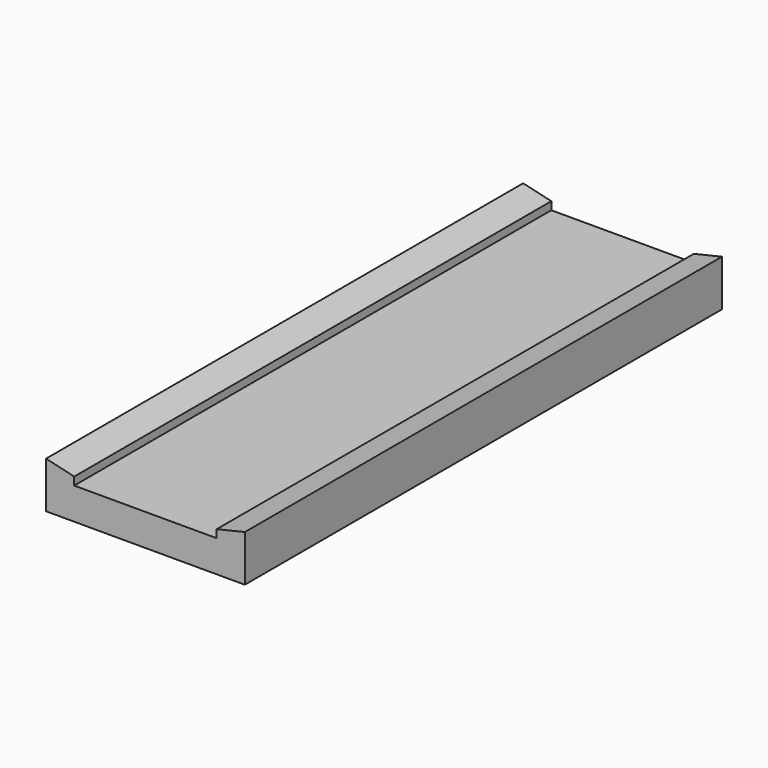
from build123d import *

# Parameters (mm, degrees)
F1_DEPTH = 228.6
F2_SCALE = 0.6666


with BuildPart() as f1:
    # F0 (on Front) → F1 (new body)
    with BuildSketch(Plane.XZ):
        Polygon((0, 12.192), (0, 0), (38.1, 0), (38.1, 17.78), (27.305, 15.24), (27.305, 12.192), align=None)
        Polygon((-38.1, 0), (0, 0), (0, 12.192), (-27.305, 12.192), (-27.305, 15.24), (-38.1, 17.78), align=None)
    extrude(amount=F1_DEPTH)


with BuildPart() as f1_1:
    # F2: moved
    add(f1.part.scale(F2_SCALE))


solid = f1_1.part
